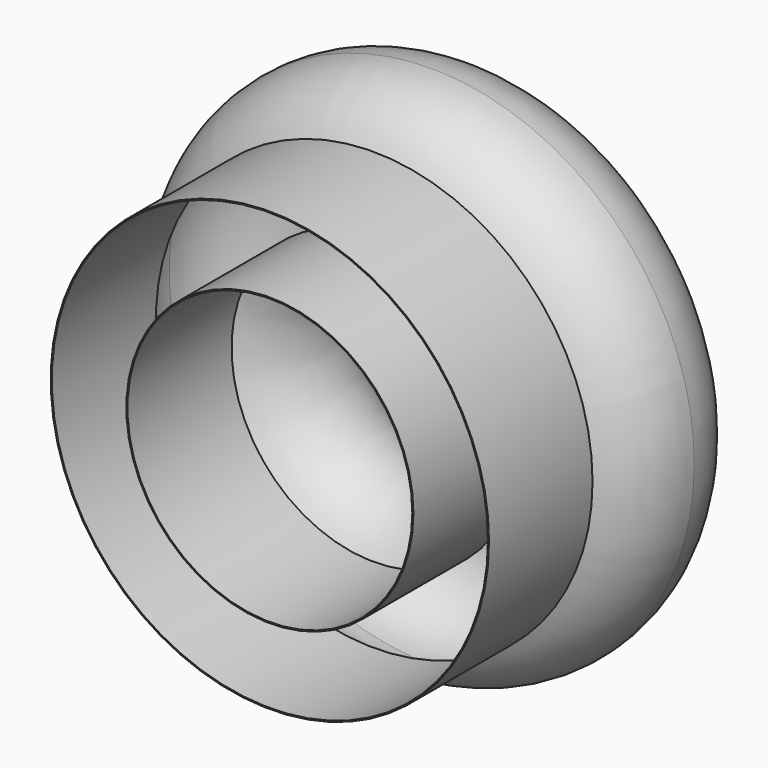
from build123d import *

# Parameters (mm, degrees)
F0_R   = 4.8384676429
F0_W   = 33.4663977847
F0_H   = 30.9353219345
F0_R_2 = 5.4605028195
F2_T   = -0.508


with BuildPart() as f1:
    # F0 (on Top) → F1 (revolve)
    with BuildSketch(Plane.XY):
        with BuildLine():
            ThreePointArc((17.8919658065, -1.9525471005), (32.4350583253, 11.6745100181), (37.8015630077, 30.8682291267))
            ThreePointArc((37.8015630077, 30.8682291267), (-18.0932111943, 62.6925632536), (-16.9331512416, -1.6165985091))
            Line((-16.9331512416, -1.6165985091), (17.8919658065, -1.9525471005))
        make_face()
        with Locations((-12.7029997908, 51.3977174703)):
            Circle(F0_R, mode=Mode.SUBTRACT)
        with Locations((1.2655355968, 25.1701041125)):
            Rectangle(F0_W, F0_H, mode=Mode.SUBTRACT)
        with Locations((13.1701837148, 51.3977174703)):
            Circle(F0_R_2, mode=Mode.SUBTRACT)
        with Locations((1.2655355968, 25.1701041125)):
            Rectangle(F0_W, F0_H)
        with BuildLine():
            ThreePointArc((-10.6082574531, -4.3384393356), (-13.8341463735, -3.1249427076), (-16.9331512416, -1.6165985091))
            Line((-16.9331512416, -1.6165985091), (-16.9331512416, -58.8920318501))
            Line((-16.9331512416, -58.8920318501), (-16.9331512416, -60.6517791748))
            Line((-16.9331512416, -60.6517791748), (17.8919658065, -60.6517791748))
            Line((17.8919658065, -60.6517791748), (17.8919658065, -1.9525471005))
            ThreePointArc((17.8919658065, -1.9525471005), (15.0521227576, -3.282136167), (12.1099166572, -4.366543328))
            Line((12.1099166572, -4.366543328), (12.1099166572, -56.1267063022))
            Line((12.1099166572, -56.1267063022), (-10.6082574531, -56.1267063022))
            Line((-10.6082574531, -56.1267063022), (-10.6082574531, -50.4808252712))
            Line((-10.6082574531, -50.4808252712), (-10.6082574531, -4.3384393356))
        make_face()
        with BuildLine():
            ThreePointArc((-5.0870146767, -5.6685887978), (-7.8731897306, -5.1095833441), (-10.6082574531, -4.3384393356))
            Line((-10.6082574531, -4.3384393356), (-10.6082574531, -50.4808252712))
            Line((-10.6082574531, -50.4808252712), (-10.6082574531, -56.1267063022))
            Line((-10.6082574531, -56.1267063022), (12.1099166572, -56.1267063022))
            Line((12.1099166572, -56.1267063022), (12.1099166572, -4.366543328))
            ThreePointArc((12.1099166572, -4.366543328), (8.9675990311, -5.2251071548), (5.7619544295, -5.8040152617))
            Line((5.7619544295, -5.8040152617), (5.7619544295, -50.64771019))
            Line((5.7619544295, -50.64771019), (-5.0870146767, -50.4808252712))
            Line((-5.0870146767, -50.4808252712), (-5.0870146767, -5.6685887978))
        make_face()
        with BuildLine():
            ThreePointArc((5.7619544295, -5.8040152617), (0.3324798572, -6.1360508129), (-5.0870146767, -5.6685887978))
            Line((-5.0870146767, -5.6685887978), (-5.0870146767, -50.4808252712))
            Line((-5.0870146767, -50.4808252712), (5.7619544295, -50.64771019))
            Line((5.7619544295, -50.64771019), (5.7619544295, -5.8040152617))
        make_face()
        with BuildLine():
            Line((17.8919658065, -1.9525471005), (-16.9331512416, -1.6165985091))
            ThreePointArc((-16.9331512416, -1.6165985091), (-13.8341463735, -3.1249427076), (-10.6082574531, -4.3384393356))
            ThreePointArc((-10.6082574531, -4.3384393356), (-7.8731897306, -5.1095833441), (-5.0870146767, -5.6685887978))
            ThreePointArc((-5.0870146767, -5.6685887978), (0.3324798572, -6.1360508129), (5.7619544295, -5.8040152617))
            ThreePointArc((5.7619544295, -5.8040152617), (8.9675990311, -5.2251071548), (12.1099166572, -4.366543328))
            ThreePointArc((12.1099166572, -4.366543328), (15.0521227576, -3.282136167), (17.8919658065, -1.9525471005))
        make_face()
        with Locations((13.1701837148, 51.3977174703)):
            Circle(F0_R_2)
        with Locations((-12.7029997908, 51.3977174703)):
            Circle(F0_R)
    revolve(axis=Axis((-81.5567672253, -2.3904573172, 0), (0, -1, 0)))

    # F2
    f2_openings = [f1.faces().sort_by_distance(p)[0] for p in [
        (-148.993218, -60.651779, 0),
    ]]
    offset(amount=F2_T, openings=f2_openings, kind=Kind.INTERSECTION)


solid = f1.part
